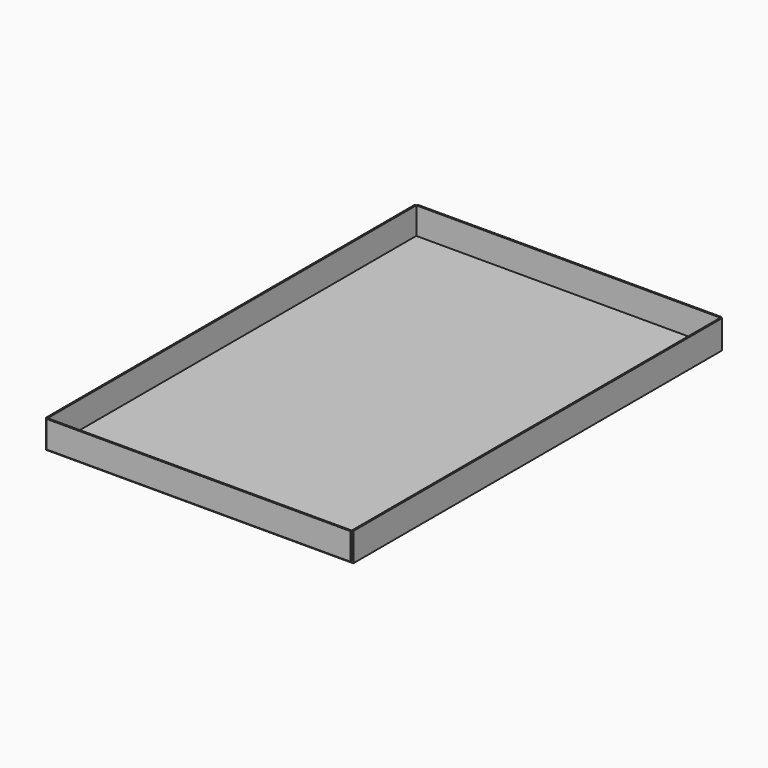
from build123d import *

# Parameters (mm, degrees)
F1_DEPTH = 600
F2_W     = 396
F2_H     = 35
F3_DEPTH = 2
F4_W     = 396
F4_H     = 35
F5_DEPTH = 2


with BuildPart() as f1:
    # F0 (on Front) → F1 (new body)
    with BuildSketch(Plane.XZ):
        Polygon((-192.9013718367, -5.2381562442), (-588.9013718367, -5.2381562442), (-588.9013718367, 29.7618437558), (-590.9013718367, 29.7618437558), (-590.9013718367, -5.2381562442), (-590.9013718367, -7.2381562442), (-190.9013718367, -7.2381562442), (-190.9013718367, -5.2381562442), (-190.9013718367, 29.7618437558), (-192.9013718367, 29.7618437558), align=None)
    extrude(amount=F1_DEPTH)


with BuildPart() as f3:
    # F2 (on face) → F3 (new body)
    with BuildSketch(Plane.XZ.offset(600)):
        with Locations((-390.9013718367, 12.2618437558)):
            Rectangle(F2_W, F2_H)
    extrude(amount=F3_DEPTH)


with BuildPart() as f5:
    # F4 (on face) → F5 (new body)
    with BuildSketch(Plane(origin=(0, 0, 0), x_dir=(-1, 0, 0), z_dir=(0, 1, 0))):
        with Locations((390.9013718367, 12.2618437558)):
            Rectangle(F4_W, F4_H)
    extrude(amount=F5_DEPTH)


solid = Compound([f1.part, f3.part, f5.part])
